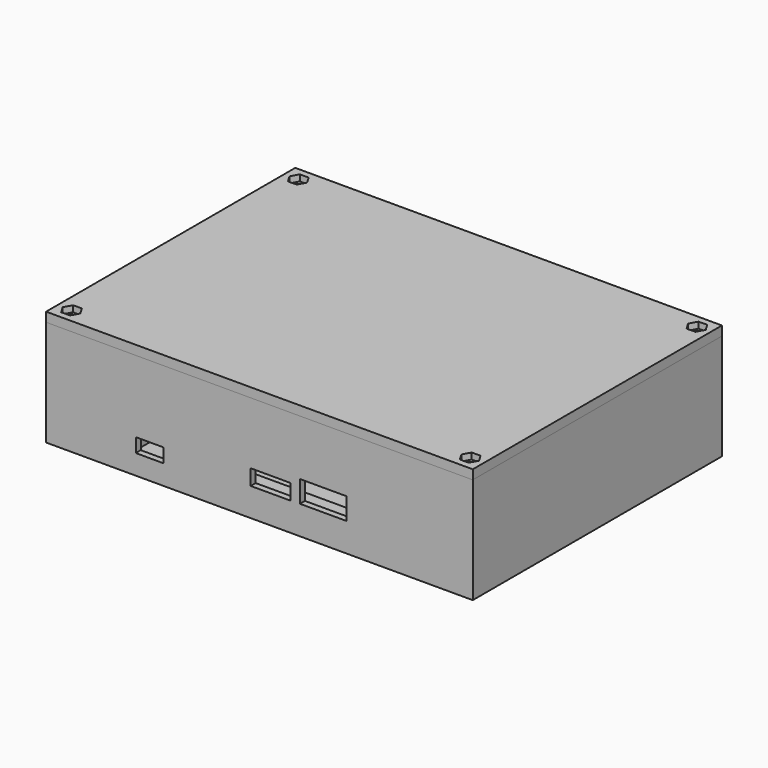
from build123d import *

# Parameters (mm, degrees)
F0_W           = 137
F0_H           = 100
F1_DEPTH       = 4
F2_W           = 137
F2_H           = 100
F2_W_2         = 133
F2_H_2         = 96
F3_DEPTH       = 30
F4_W           = 5
F4_H           = 5
F5_DEPTH       = 30
F7_D           = 3
F7_CSINK_D     = 7
F7_CSINK_ANGLE = 90
F9_DEPTH       = 18
F10_R          = 1
F10_W          = 2
F10_H          = 4.0333677605
F11_DEPTH      = 2
F12_W          = 44.2
F12_H          = 59.2
F13_DEPTH      = 4
F15_D          = 1
F15_DEPTH      = 2
F15_TIP        = 0.3004303095
F16_W          = 22
F16_H          = 17
F16_W_2        = 18
F16_H_2        = 13
F17_DEPTH      = 3
F19_DEPTH      = 10
F20_W          = 17
F20_H          = 39.1
F21_DEPTH      = 10
F22_W          = 41.55
F22_H          = 1.5
F22_W_2        = 2.45
F23_DEPTH      = 17
F25_DEPTH      = 15
F26_W          = 27
F26_H          = 24.5
F27_DEPTH      = 15
F28_W          = 26.75
F28_H          = 1.5
F28_W_2        = 2.25
F29_DEPTH      = 27
F30_W          = 8.9
F30_H          = 4.5
F30_W_2        = 12.7
F30_H_2        = 5
F30_W_3        = 15
F30_H_3        = 7
F31_DEPTH      = 2
F32_W          = 38
F32_H          = 15
F33_DEPTH      = 10
F34_W          = 28
F34_H          = 15
F35_DEPTH      = 10
F36_W          = 1.5
F36_H          = 1.5
F36_W_2        = 29.5
F37_DEPTH      = 15
F38_W          = 137
F38_H          = 100
F39_DEPTH      = 3
F40_W          = 118.83075414
F40_H          = 2
F40_W_2        = 2
F40_H_2        = 81.8
F40_W_3        = 118.8
F41_DEPTH      = 2
F43_D          = 3
F43_2_D        = 3
F42_R          = 1.5
F44_DEPTH      = 2


with BuildPart() as f1:
    # F0 (on Top) → F1 (new body)
    with BuildSketch(Plane.XY):
        with Locations((-13.974821195, -20.9891236772)):
            Rectangle(F0_W, F0_H)
    extrude(amount=-F1_DEPTH)

    # F2 (on face) → F3 (join)
    with BuildSketch(Plane.XY):
        with Locations((-13.974821195, -20.9891236772)):
            Rectangle(F2_W, F2_H)
        with Locations((-13.974821195, -20.9891236772)):
            Rectangle(F2_W_2, F2_H_2, mode=Mode.SUBTRACT)
    extrude(amount=F3_DEPTH)

    # F4 (on face) → F5 (join)
    with BuildSketch(Plane.XY):
        with Locations((-77.974821195, 24.5108763228)):
            Rectangle(F4_W, F4_H)
        with Locations((50.025178805, 24.5108763228)):
            Rectangle(F4_W, F4_H)
        with Locations((50.025178805, -66.4891236772)):
            Rectangle(F4_W, F4_H)
        with Locations((-77.974821195, -66.4891236772)):
            Rectangle(F4_W, F4_H)
    extrude(amount=F5_DEPTH)

    # F7 (through all)
    with Locations(Plane(origin=(0, 0, -4), x_dir=(1, 0, 0), z_dir=(0, 0, -1))):
        with Locations((-77.9622694083, 66.4557559167), (50.0377305917, 66.4557559167), (50.0377305917, -24.5442440833), (-77.9622694083, -24.5442440833)):
            CounterSinkHole(F7_D / 2, F7_CSINK_D / 2, counter_sink_angle=F7_CSINK_ANGLE)

    # F8 (on face) → F9 (join)
    with BuildSketch(Plane.XY):
        Polygon((-57.474821195, 16.1442440833), (-80.474821195, 16.1442440833), (-80.474821195, 14.1442440833), (-59.474821195, 14.1442440833), (-59.474821195, -62.9557559167), (-80.474821195, -62.9557559167), (-80.474821195, -63.9891236772), (-75.474821195, -63.9891236772), (-75.474821195, -64.9557559167), (-57.474821195, -64.9557559167), align=None)
    extrude(amount=F9_DEPTH)

    # F10 (on face) → F11 (join)
    with BuildSketch(Plane.XY):
        Polygon((-57.474821195, -44.4891236772), (-57.474821195, -46.4891236772), (-34.974821195, -46.4891236772), (-34.974821195, -68.9891236772), (-32.974821195, -68.9891236772), (-32.974821195, -44.4891236772), align=None)
        with Locations((-37.474821195, -64.9891236772)):
            Circle(F10_R)
        with Locations((-58.474821195, -66.972439797)):
            Rectangle(F10_W, F10_H)
    extrude(amount=F11_DEPTH)

    # F12 (on face) → F13 (join)
    with BuildSketch(Plane.XY):
        Polygon((-32.974821195, -44.4891236772), (-32.974821195, -68.9891236772), (17.025178805, -68.9891236772), (17.025178805, 1.0108763228), (-32.974821195, 1.0108763228), align=None)
        with Locations((-7.974821195, -33.9891236772)):
            Rectangle(F12_W, F12_H, mode=Mode.SUBTRACT)
    extrude(amount=F13_DEPTH)

    # F15
    with Locations(Plane.XY.offset(4)):
        with Locations((-30.474821195, -1.4891236772), (14.525178805, -1.4891236772), (14.525178805, -66.4891236772), (-30.474821195, -66.4891236772)):
            Hole(F15_D / 2, depth=F15_DEPTH)
            with Locations((0, 0, -(F15_DEPTH + F15_TIP / 2))):  # 118° drill point
                Cone(0, F15_D / 2, F15_TIP, mode=Mode.SUBTRACT)

    # F16 (on face) → F17 (join)
    with BuildSketch(Plane.XY):
        with Locations((-43.974821195, -35.9891236772)):
            Rectangle(F16_W, F16_H)
        with Locations((-43.974821195, -35.9891236772)):
            Rectangle(F16_W_2, F16_H_2, mode=Mode.SUBTRACT)
    extrude(amount=F17_DEPTH)

    # F18 (on face) → F19 (join)
    with BuildSketch(Plane.XY):
        Polygon((47.525178805, -63.9891236772), (52.525178805, -63.9891236772), (52.525178805, -16.9891236772), (35.525178805, -16.9891236772), (35.525178805, -63.9891236772), align=None)
    extrude(amount=F19_DEPTH)

    # F20 (on face) → F21 (cut)
    with BuildSketch(Plane.XY.offset(10)):
        with Locations((44.025178805, -40.4891236772)):
            Rectangle(F20_W, F20_H)
    extrude(amount=-F21_DEPTH, mode=Mode.SUBTRACT)

    # F22 (on face) → F23 (cut)
    with BuildSketch(Plane(origin=(35.525178805, 0, 0), x_dir=(0, -1, 0), z_dir=(-1, 0, 0))):
        with Locations((41.7141236772, 7.25)):
            Rectangle(F22_W, F22_H)
        with Locations((19.7141236772, 7.25)):
            Rectangle(F22_W_2, F22_H)
    extrude(amount=-F23_DEPTH, mode=Mode.SUBTRACT)

    # F24 (on face) → F25 (join)
    with BuildSketch(Plane.XY):
        Polygon((35.525178805, -16.9891236772), (52.525178805, -16.9891236772), (52.525178805, 16.0108763228), (25.525178805, 16.0108763228), (25.525178805, -16.9891236772), align=None)
    extrude(amount=F25_DEPTH)

    # F26 (on face) → F27 (cut)
    with BuildSketch(Plane.XY.offset(15)):
        with Locations((39.025178805, -0.4891236772)):
            Rectangle(F26_W, F26_H)
    extrude(amount=-F27_DEPTH, mode=Mode.SUBTRACT)

    # F28 (on face) → F29 (cut)
    with BuildSketch(Plane(origin=(25.525178805, 0, 0), x_dir=(0, -1, 0), z_dir=(-1, 0, 0))):
        with Locations((1.6141236772, 12.25)):
            Rectangle(F28_W, F28_H)
        with Locations((-12.8858763228, 12.25)):
            Rectangle(F28_W_2, F28_H)
    extrude(amount=-F29_DEPTH, mode=Mode.SUBTRACT)

    # F30 (on face) → F31 (cut)
    with BuildSketch(Plane.XZ.offset(70.9891236772)):
        with Locations((-49.224821195, 4.65)):
            Rectangle(F30_W, F30_H)
        with Locations((-10.424821195, 7.6)):
            Rectangle(F30_W_2, F30_H_2)
        with Locations((6.525178805, 8.7)):
            Rectangle(F30_W_3, F30_H_3)
    extrude(amount=-F31_DEPTH, mode=Mode.SUBTRACT)

    # F32 (on face) → F33 (join)
    with BuildSketch(Plane.XY):
        with Locations((-33.9621642071, 19.5108763228)):
            Rectangle(F32_W, F32_H)
    extrude(amount=F33_DEPTH)

    # F34 (on face) → F35 (cut)
    with BuildSketch(Plane.XY.offset(10)):
        with Locations((-33.9621642071, 19.5108763228)):
            Rectangle(F34_W, F34_H)
    extrude(amount=-F35_DEPTH, mode=Mode.SUBTRACT)

    # F36 (on face) → F37 (cut)
    with BuildSketch(Plane.XZ.offset(-12.0108763228)):
        with Locations((-48.7121642071, 7.25)):
            Rectangle(F36_W, F36_H)
        with Locations((-33.2121642071, 7.25)):
            Rectangle(F36_W_2, F36_H)
    extrude(amount=-F37_DEPTH, mode=Mode.SUBTRACT)

    # F43 (through all)
    with Locations(Plane.XY.offset(33)):
        with Locations((-77.9333040118, 24.5538745075), (50.0666959882, 24.5538745075), (50.0666959882, -66.4461254925), (-77.9333040118, -66.4461254925)):
            Hole(F43_D / 2)


with BuildPart() as f39:
    # F38 (on face) → F39 (new body)
    with BuildSketch(Plane.XY.offset(30)):
        with Locations((-13.974821195, -20.9891236772)):
            Rectangle(F38_W, F38_H)
    extrude(amount=F39_DEPTH)

    # F40 (on face) → F41 (join)
    with BuildSketch(Plane(origin=(0, 0, 30), x_dir=(1, 0, 0), z_dir=(0, 0, -1))):
        with Locations((-13.990198265, 67.9391236772)):
            Rectangle(F40_W, F40_H)
        Polygon((-73.405575335, 66.9391236772), (-75.405575335, 66.9391236772), (-75.405575335, 63.8891236772), (-78.424821195, 63.8891236772), (-78.424821195, 61.8891236772), (-73.405575335, 61.8891236772), align=None)
        with Locations((-74.405575335, 67.9391236772)):
            Rectangle(F40_W_2, F40_H)
        with Locations((-79.424821195, 62.8891236772)):
            Rectangle(F40_W_2, F40_H)
        with Locations((-79.424821195, 20.9891236772)):
            Rectangle(F40_W_2, F40_H_2)
        with Locations((46.425178805, -25.9608763228)):
            Rectangle(F40_W_2, F40_H)
        with Locations((51.475178805, -20.9108763228)):
            Rectangle(F40_W_2, F40_H)
        with Locations((51.475178805, 20.9891236772)):
            Rectangle(F40_W_2, F40_H_2)
        Polygon((47.425178805, 66.9391236772), (45.425178805, 66.9391236772), (45.425178805, 61.8891236772), (50.475178805, 61.8891236772), (50.475178805, 63.8891236772), (47.425178805, 63.8891236772), align=None)
        with Locations((46.425178805, 67.9391236772)):
            Rectangle(F40_W_2, F40_H)
        with Locations((51.475178805, 62.8891236772)):
            Rectangle(F40_W_2, F40_H)
        Polygon((-73.374821195, -19.9108763228), (-78.424821195, -19.9108763228), (-78.424821195, -21.9108763228), (-75.374821195, -21.9108763228), (-75.374821195, -24.9608763228), (-73.374821195, -24.9608763228), align=None)
        Polygon((50.475178805, -21.9108763228), (50.475178805, -19.9108763228), (45.425178805, -19.9108763228), (45.425178805, -24.9608763228), (47.425178805, -24.9608763228), (47.425178805, -21.9108763228), align=None)
        with Locations((-13.974821195, -25.9608763228)):
            Rectangle(F40_W_3, F40_H)
        with Locations((-79.424821195, -20.9108763228)):
            Rectangle(F40_W_2, F40_H)
        with Locations((-74.374821195, -25.9608763228)):
            Rectangle(F40_W_2, F40_H)
    extrude(amount=F41_DEPTH)

    # F43#2 (through all)
    with Locations(Plane.XY.offset(33)):
        with Locations((-77.9333040118, 24.5538745075), (50.0666959882, 24.5538745075), (50.0666959882, -66.4461254925), (-77.9333040118, -66.4461254925)):
            Hole(F43_2_D / 2)

    # F42 (on face) → F44 (cut)
    with BuildSketch(Plane.XY.offset(33)):
        Polygon((-79.372975946, 26.9568464525), (-80.7341747279, 24.5085680119), (-79.2945027937, 22.1055960669), (-76.4936320776, 22.1509025625), (-75.1324332958, 24.5991810032), (-76.57210523, 27.0021529482), align=None)
        with Locations((-77.9333040118, 24.5538745075)):
            Circle(F42_R, mode=Mode.SUBTRACT)
        Polygon((-76.57210523, -63.9978470518), (-79.372975946, -64.0431535475), (-80.7341747279, -66.4914319881), (-79.2945027937, -68.8944039331), (-76.4936320776, -68.8490974375), (-75.1324332958, -66.4008189968), align=None)
        with Locations((-77.9333040118, -66.4461254925)):
            Circle(F42_R, mode=Mode.SUBTRACT)
        Polygon((51.42789477, 27.0021529482), (48.627024054, 26.9568464525), (47.2658252721, 24.5085680119), (48.7054972063, 22.1055960669), (51.5063679224, 22.1509025625), (52.8675667042, 24.5991810032), align=None)
        with Locations((50.0666959882, 24.5538745075)):
            Circle(F42_R, mode=Mode.SUBTRACT)
        Polygon((51.42789477, -63.9978470518), (48.627024054, -64.0431535475), (47.2658252721, -66.4914319881), (48.7054972063, -68.8944039331), (51.5063679224, -68.8490974375), (52.8675667042, -66.4008189968), align=None)
        with Locations((50.0666959882, -66.4461254925)):
            Circle(F42_R, mode=Mode.SUBTRACT)
    extrude(amount=-F44_DEPTH, mode=Mode.SUBTRACT)


solid = Compound([f1.part, f39.part])
